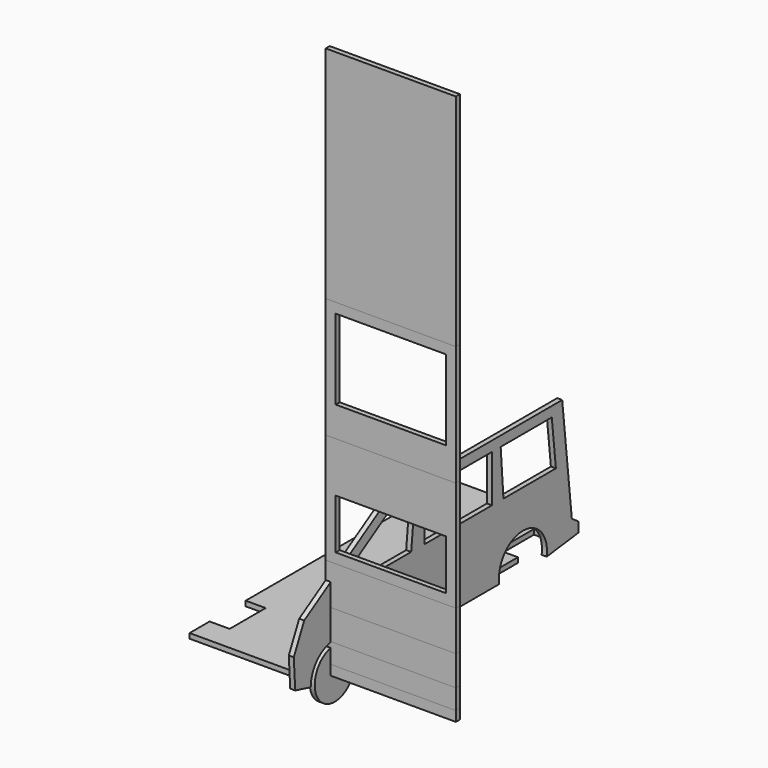
from build123d import *

# Parameters (mm, degrees)
F0_R      = 25
F0_W      = 84.067106
F0_H      = 46.947088
F1_DEPTH  = 5
F3_DEPTH  = 5
F4_W      = 130
F4_H      = 220
F5_DEPTH  = 5
F4_H_2    = 120
F4_W_2    = 110
F4_H_3    = 80
F6_DEPTH  = 5
F4_H_4    = 110
F4_H_5    = 50
F7_DEPTH  = 5
F4_H_6    = 40
F8_DEPTH  = 5
F4_H_7    = 30
F9_DEPTH  = 5
F4_H_8    = 20
F10_DEPTH = 5
F4_H_9    = 10
F11_DEPTH = 5


with BuildPart() as f1:
    # F0 (on Right) → F1 (new body)
    with BuildSketch(Plane.YZ):
        Circle(F0_R)
        with BuildLine():
            ThreePointArc((-30, 0), (2.508788, 29.894916), (29.580399, -5))
            Line((29.580399, -5), (205.419601, -5))
            ThreePointArc((205.419601, -5), (235, 30), (264.580399, -5))
            Line((264.580399, -5), (304.266669, 0))
            Line((304.266669, 0), (304.266669, 10))
            Line((304.266669, 10), (296.021865, 15.658906))
            Line((296.021865, 15.658906), (284, 125))
            Line((284, 125), (64, 125))
            Line((64, 125), (-38.132267, 62))
            Line((-38.132267, 62), (-51.104252, 34.949536))
            Line((-51.104252, 34.949536), (-49.364917, 5))
            Line((-49.364917, 5), (-30, 0))
        make_face()
        Polygon((95.434301, 68), (31.59388, 68), (27.530611, 89.941205), (68.068825, 114.947088), (100.222918, 114.947088), align=None, mode=Mode.SUBTRACT)
        with Locations((154.185772, 91.473544)):
            Rectangle(F0_W, F0_H, mode=Mode.SUBTRACT)
        Polygon((270.96907, 114.947088), (276.130822, 68), (210.655245, 68), (207.187737, 114.947088), align=None, mode=Mode.SUBTRACT)
    extrude(amount=F1_DEPTH)


with BuildPart() as f3:
    # F2 (on Top) → F3 (new body)
    with BuildSketch(Plane.XY):
        Polygon((-100, 235), (-120, 235), (-120, 45), (-100, 45), (-100, 0), (-120, 0), (-120, -25), (0, -25), (0, 0), (-20, 0), (-20, 45), (0, 45), (0, 235), (-20, 235), (-20, 280), (0, 280), (0, 305), (-120, 305), (-120, 280), (-100, 280), align=None)
    extrude(amount=F3_DEPTH)


with BuildPart() as f5:
    # F4 (on Front) → F5 (new body)
    with BuildSketch(Plane.XZ):
        with Locations((65, 440)):
            Rectangle(F4_W, F4_H)
    extrude(amount=F5_DEPTH)


with BuildPart() as f6:
    # F4 (on Front) → F6 (new body)
    with BuildSketch(Plane.XZ):
        with Locations((65, 270)):
            Rectangle(F4_W, F4_H_2)
        with Locations((65, 280)):
            Rectangle(F4_W_2, F4_H_3, mode=Mode.SUBTRACT)
    extrude(amount=F6_DEPTH)


with BuildPart() as f7:
    # F4 (on Front) → F7 (new body)
    with BuildSketch(Plane.XZ):
        with Locations((65, 155)):
            Rectangle(F4_W, F4_H_4)
        with Locations((65, 135)):
            Rectangle(F4_W_2, F4_H_5, mode=Mode.SUBTRACT)
    extrude(amount=F7_DEPTH)


with BuildPart() as f8:
    # F4 (on Front) → F8 (new body)
    with BuildSketch(Plane.XZ):
        with Locations((65, 80)):
            Rectangle(F4_W, F4_H_6)
    extrude(amount=F8_DEPTH)


with BuildPart() as f9:
    # F4 (on Front) → F9 (new body)
    with BuildSketch(Plane.XZ):
        with Locations((65, 45)):
            Rectangle(F4_W, F4_H_7)
    extrude(amount=F9_DEPTH)


with BuildPart() as f10:
    # F4 (on Front) → F10 (new body)
    with BuildSketch(Plane.XZ):
        with Locations((65, 20)):
            Rectangle(F4_W, F4_H_8)
    extrude(amount=F10_DEPTH)


with BuildPart() as f11:
    # F4 (on Front) → F11 (new body)
    with BuildSketch(Plane.XZ):
        with Locations((65, 5)):
            Rectangle(F4_W, F4_H_9)
    extrude(amount=F11_DEPTH)


solid = Compound([f1.part, f3.part, f5.part, f6.part, f7.part, f8.part, f9.part, f10.part, f11.part])
